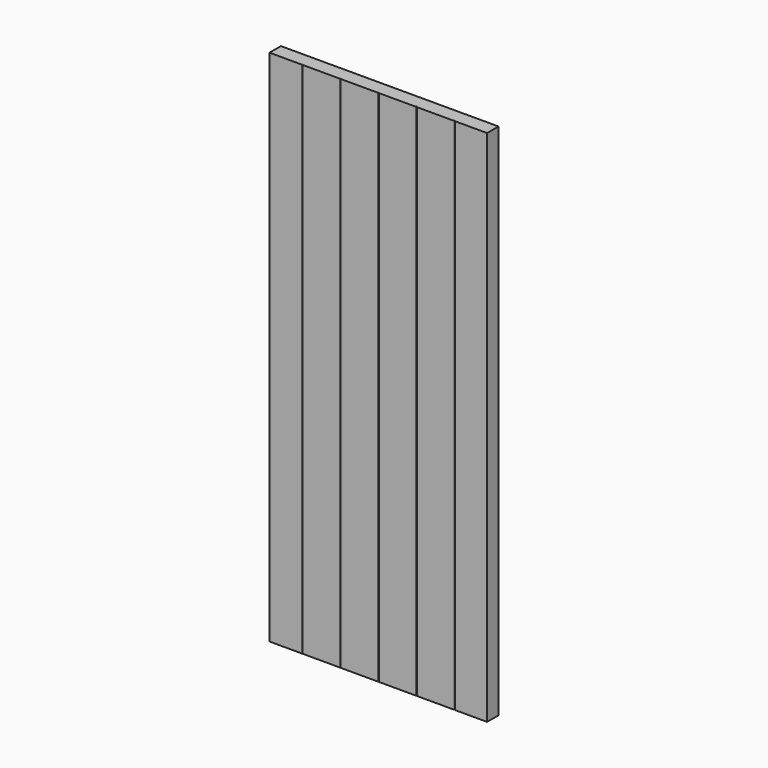
from build123d import *

# Parameters (mm, degrees)
F1_DEPTH = 692.15
F2_W     = 381
F2_H     = 137.227848
F2_H_2   = 195.285798
F3_DEPTH = 1143
F4_R     = 0.79375
F5_DEPTH = 25.4


with BuildPart() as f1:
    # F0 (on Top) → F1 (new body)
    with BuildSketch(Plane.XY):
        with BuildLine():
            Line((458.216, -9.525), (508, -9.525))
            Line((508, -9.525), (508, 9.525))
            Line((508, 9.525), (-508, 9.525))
            Line((-508, 9.525), (-508, -8.509))
            ThreePointArc((-508, -8.509), (-507.70242, -9.22742), (-506.984, -9.525))
            Line((-506.984, -9.525), (-458.216, -9.525))
            ThreePointArc((-458.216, -9.525), (-457.49758, -9.22742), (-457.2, -8.509))
            ThreePointArc((-457.2, -8.509), (-456.90242, -9.22742), (-456.184, -9.525))
            Line((-456.184, -9.525), (-407.416, -9.525))
            ThreePointArc((-407.416, -9.525), (-406.69758, -9.22742), (-406.4, -8.509))
            ThreePointArc((-406.4, -8.509), (-406.10242, -9.22742), (-405.384, -9.525))
            Line((-405.384, -9.525), (-356.616, -9.525))
            ThreePointArc((-356.616, -9.525), (-355.89758, -9.22742), (-355.6, -8.509))
            ThreePointArc((-355.6, -8.509), (-355.30242, -9.22742), (-354.584, -9.525))
            Line((-354.584, -9.525), (-305.816, -9.525))
            ThreePointArc((-305.816, -9.525), (-305.09758, -9.22742), (-304.8, -8.509))
            ThreePointArc((-304.8, -8.509), (-304.50242, -9.22742), (-303.784, -9.525))
            Line((-303.784, -9.525), (-255.016, -9.525))
            ThreePointArc((-255.016, -9.525), (-254.29758, -9.22742), (-254, -8.509))
            ThreePointArc((-254, -8.509), (-253.70242, -9.22742), (-252.984, -9.525))
            Line((-252.984, -9.525), (-204.216, -9.525))
            ThreePointArc((-204.216, -9.525), (-203.49758, -9.22742), (-203.2, -8.509))
            ThreePointArc((-203.2, -8.509), (-202.90242, -9.22742), (-202.184, -9.525))
            Line((-202.184, -9.525), (-153.416, -9.525))
            ThreePointArc((-153.416, -9.525), (-152.69758, -9.22742), (-152.4, -8.509))
            ThreePointArc((-152.4, -8.509), (-152.10242, -9.22742), (-151.384, -9.525))
            Line((-151.384, -9.525), (-102.616, -9.525))
            ThreePointArc((-102.616, -9.525), (-101.89758, -9.22742), (-101.6, -8.509))
            ThreePointArc((-101.6, -8.509), (-101.30242, -9.22742), (-100.584, -9.525))
            Line((-100.584, -9.525), (-51.816, -9.525))
            ThreePointArc((-51.816, -9.525), (-51.09758, -9.22742), (-50.8, -8.509))
            ThreePointArc((-50.8, -8.509), (-50.50242, -9.22742), (-49.784, -9.525))
            Line((-49.784, -9.525), (-1.016, -9.525))
            ThreePointArc((-1.016, -9.525), (-0.29758, -9.22742), (0, -8.509))
            ThreePointArc((0, -8.509), (0.29758, -9.22742), (1.016, -9.525))
            Line((1.016, -9.525), (49.784, -9.525))
            ThreePointArc((49.784, -9.525), (50.50242, -9.22742), (50.8, -8.509))
            ThreePointArc((50.8, -8.509), (51.09758, -9.22742), (51.816, -9.525))
            Line((51.816, -9.525), (100.584, -9.525))
            ThreePointArc((100.584, -9.525), (101.30242, -9.22742), (101.6, -8.509))
            ThreePointArc((101.6, -8.509), (101.89758, -9.22742), (102.616, -9.525))
            Line((102.616, -9.525), (151.384, -9.525))
            ThreePointArc((151.384, -9.525), (152.10242, -9.22742), (152.4, -8.509))
            ThreePointArc((152.4, -8.509), (152.69758, -9.22742), (153.416, -9.525))
            Line((153.416, -9.525), (202.184, -9.525))
            ThreePointArc((202.184, -9.525), (202.90242, -9.22742), (203.2, -8.509))
            ThreePointArc((203.2, -8.509), (203.49758, -9.22742), (204.216, -9.525))
            Line((204.216, -9.525), (252.984, -9.525))
            ThreePointArc((252.984, -9.525), (253.70242, -9.22742), (254, -8.509))
            ThreePointArc((254, -8.509), (254.29758, -9.22742), (255.016, -9.525))
            Line((255.016, -9.525), (303.784, -9.525))
            ThreePointArc((303.784, -9.525), (304.50242, -9.22742), (304.8, -8.509))
            ThreePointArc((304.8, -8.509), (305.09758, -9.22742), (305.816, -9.525))
            Line((305.816, -9.525), (354.584, -9.525))
            ThreePointArc((354.584, -9.525), (355.30242, -9.22742), (355.6, -8.509))
            ThreePointArc((355.6, -8.509), (355.89758, -9.22742), (356.616, -9.525))
            Line((356.616, -9.525), (405.384, -9.525))
            ThreePointArc((405.384, -9.525), (406.10242, -9.22742), (406.4, -8.509))
            ThreePointArc((406.4, -8.509), (406.69758, -9.22742), (407.416, -9.525))
            Line((407.416, -9.525), (456.184, -9.525))
            ThreePointArc((456.184, -9.525), (456.90242, -9.22742), (457.2, -8.509))
            ThreePointArc((457.2, -8.509), (457.49758, -9.22742), (458.216, -9.525))
        make_face()
        with BuildLine():
            ThreePointArc((-506.984, -9.525), (-507.70242, -9.22742), (-508, -8.509))
            Line((-508, -8.509), (-508, -9.525))
            Line((-508, -9.525), (-506.984, -9.525))
        make_face()
    extrude(amount=F1_DEPTH)

    # F2 (on Top) → F3 (cut)
    with BuildSketch(Plane.XY):
        with Locations((335.75625, -20.971623)):
            Rectangle(F2_W, F2_H)
        with Locations((-335.75625, -39.444607)):
            Rectangle(F2_W, F2_H_2)
    extrude(amount=F3_DEPTH, mode=Mode.SUBTRACT)

    # F4 (on Front) → F5 (cut)
    with BuildSketch(Plane.XZ):
        with Locations((135.73125, 616.74375)):
            Circle(F4_R)
        with Locations((123.03125, 604.8375)):
            Circle(F4_R)
        with Locations((135.73125, 592.93125)):
            Circle(F4_R)
        with Locations((135.73125, 99.21875)):
            Circle(F4_R)
        with Locations((123.03125, 87.3125)):
            Circle(F4_R)
        with Locations((135.73125, 75.40625)):
            Circle(F4_R)
    extrude(amount=-F5_DEPTH, mode=Mode.SUBTRACT)


solid = f1.part
